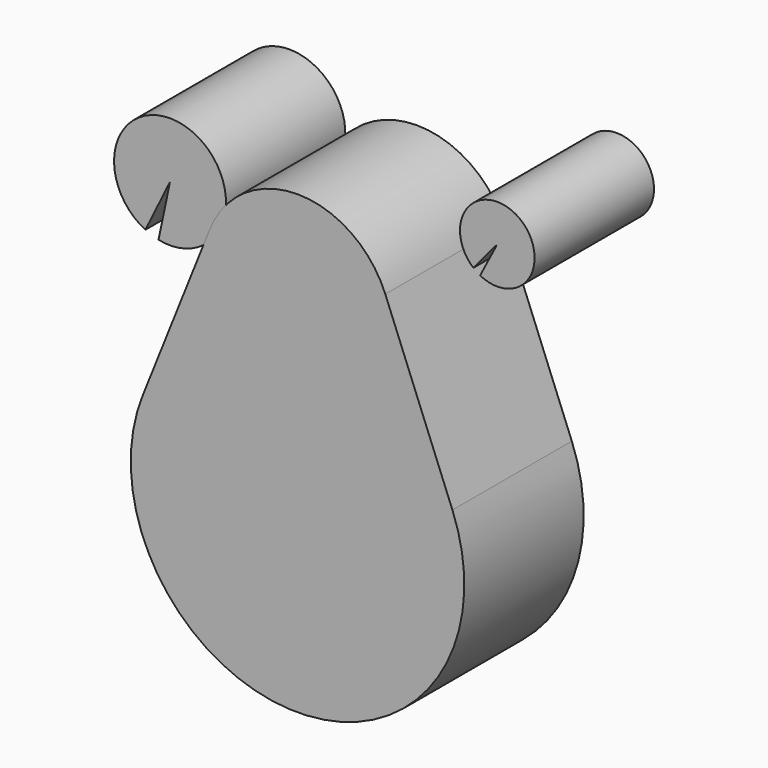
from build123d import *

# Parameters (mm, degrees)
F1_DEPTH = 25.4
F2_DEPTH = 25.4
F3_DEPTH = 25.4
F5_DEPTH = 25.4


with BuildPart() as f1:
    # F0 (on Front) → F1 (new body)
    with BuildSketch(Plane.XZ):
        with BuildLine():
            Line((0, 0), (-10.371908, -15.978924))
            ThreePointArc((-10.371908, -15.978924), (11.501359, 15.186219), (-12.570466, -14.313836))
            Line((-12.570466, -14.313836), (0, 0))
        make_face()
    extrude(amount=F1_DEPTH)


with BuildPart() as f2:
    # F0 (on Front) → F2 (new body)
    with BuildSketch(Plane.XZ):
        with BuildLine():
            Line((-21.705383, 44.063529), (-23.660642, 34.741373))
            ThreePointArc((-23.660642, 34.741373), (-18.608467, 53.071011), (-25.896083, 35.509954))
            Line((-25.896083, 35.509954), (-21.705383, 44.063529))
        make_face()
    extrude(amount=F2_DEPTH)


with BuildPart() as f3:
    # F0 (on Front) → F3 (new body)
    with BuildSketch(Plane.XZ):
        with BuildLine():
            Line((34.002694, 52.82942), (31.077413, 47.193355))
            ThreePointArc((31.077413, 47.193355), (37.522238, 58.114807), (29.930447, 47.957121))
            Line((29.930447, 47.957121), (34.002694, 52.82942))
        make_face()
    extrude(amount=F3_DEPTH)


with BuildPart() as f5:
    # F4 (on Front) → F5 (new body)
    with BuildSketch(Plane.XZ):
        with BuildLine():
            ThreePointArc((-14.937769, 39.147596), (-20.649164, 24.834584), (-26.361428, 10.521917))
            ThreePointArc((-26.361428, 10.521917), (0, -28.383721), (26.361428, 10.521917))
            ThreePointArc((26.361428, 10.521917), (20.649164, 24.834584), (14.937769, 39.147596))
            ThreePointArc((14.937769, 39.147596), (0, 49.270354), (-14.937769, 39.147596))
        make_face()
    extrude(amount=F5_DEPTH)


solid = Compound([f1.part, f2.part, f3.part, f5.part])
